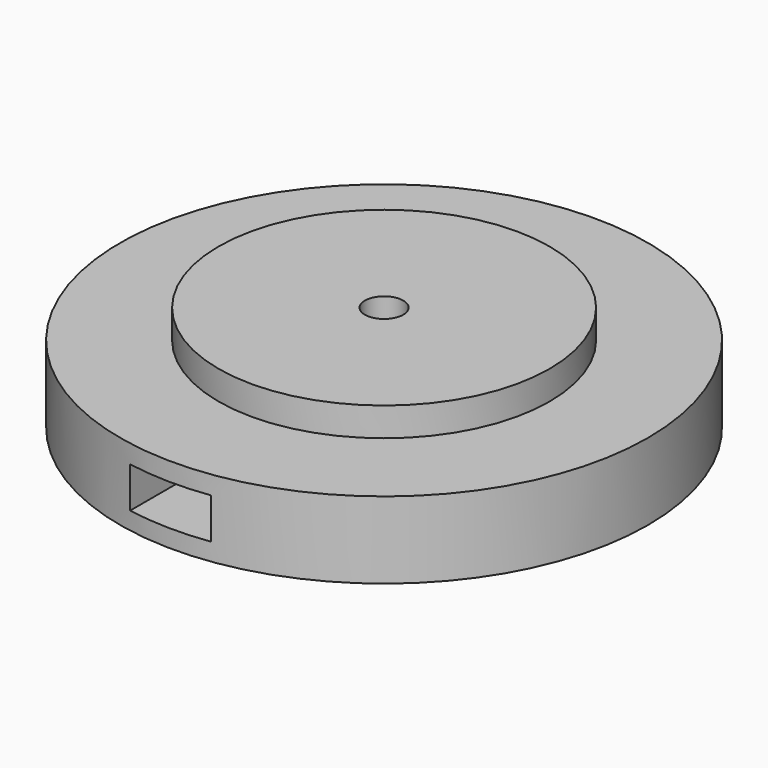
from build123d import *

# Parameters (mm, degrees)
F0_R      = 27.5
F1_DEPTH  = 8
F2_R      = 17.25
F3_DEPTH  = 3
F4_W      = 10.243726
F4_H      = 7.44366
F5_DEPTH  = 7
F6_W      = 8.55
F6_H      = 4.25
F7_DEPTH  = 25
F8_R      = 2
F9_DEPTH  = 25
F10_W     = 10.243726
F10_H     = 7.44366
F11_DEPTH = 1


with BuildPart() as f1:
    # F0 (on Top) → F1 (new body)
    with BuildSketch(Plane.XY):
        Circle(F0_R)
    extrude(amount=F1_DEPTH)

    # F2 (on face) → F3 (join)
    with BuildSketch(Plane.XY.offset(8)):
        Circle(F2_R)
    extrude(amount=F3_DEPTH)

    # F4 (on face) → F5 (cut)
    with BuildSketch(Plane(origin=(0, 0, 0), x_dir=(1, 0, 0), z_dir=(0, 0, -1))):
        with Locations((-0.102693, 0.080894)):
            Rectangle(F4_W, F4_H)
    extrude(amount=-F5_DEPTH, mode=Mode.SUBTRACT)

    # F6 (on face) → F7 (cut)
    with BuildSketch(Plane(origin=(0, -3.802724, 0), x_dir=(-1, 0, 0), z_dir=(0, 1, 0))):
        with Locations((0.52315, 3.955042)):
            Rectangle(F6_W, F6_H)
    extrude(amount=-F7_DEPTH, mode=Mode.SUBTRACT)

    # F8 (on face) → F9 (cut)
    with BuildSketch(Plane(origin=(0, 0, 7), x_dir=(1, 0, 0), z_dir=(0, 0, -1))):
        Circle(F8_R)
    extrude(amount=-F9_DEPTH, mode=Mode.SUBTRACT)

    # F10 (on face) → F11 (join)
    with BuildSketch(Plane(origin=(0, 0, 0), x_dir=(1, 0, 0), z_dir=(0, 0, -1))):
        with Locations((-0.102693, 0.080894)):
            Rectangle(F10_W, F10_H)
    extrude(amount=-F11_DEPTH)


solid = f1.part
